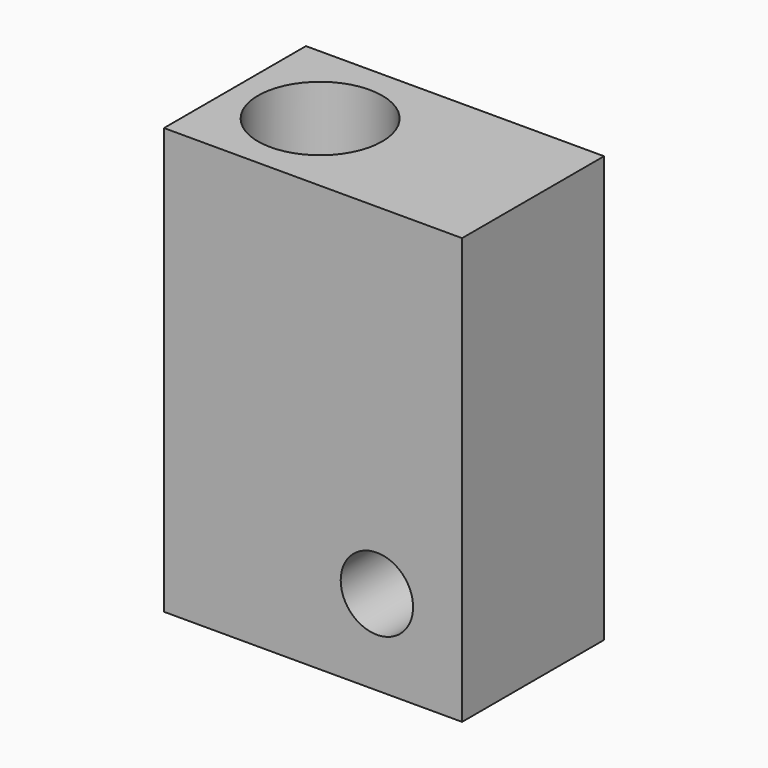
from build123d import *

# Parameters (mm, degrees)
F0_W     = 42
F0_H     = 25
F0_R     = 8.75
F1_DEPTH = 60
F0_R_2   = 5.1
F2_DEPTH = 35
F3_R     = 5.1
F4_DEPTH = 47.6


with BuildPart() as f1:
    # F0 (on Top) → F1 (new body)
    with BuildSketch(Plane.XY):
        with Locations((-2.65721, -27.237348)):
            Rectangle(F0_W, F0_H)
        with Locations((-11.65721, -27.237348)):
            Circle(F0_R, mode=Mode.SUBTRACT)
    extrude(amount=F1_DEPTH)

    # F0 (on Top) → F2 (join)
    with BuildSketch(Plane.XY):
        with Locations((-11.65721, -27.237348)):
            Circle(F0_R)
        with Locations((-11.65721, -27.237348)):
            Circle(F0_R_2, mode=Mode.SUBTRACT)
    extrude(amount=F2_DEPTH)

    # F3 (on face) → F4 (cut)
    with BuildSketch(Plane(origin=(0, -14.737348, 0), x_dir=(-1, 0, 0), z_dir=(0, 1, 0))):
        with Locations((-6.34279, 12)):
            Circle(F3_R)
    extrude(amount=-F4_DEPTH, mode=Mode.SUBTRACT)


solid = f1.part
